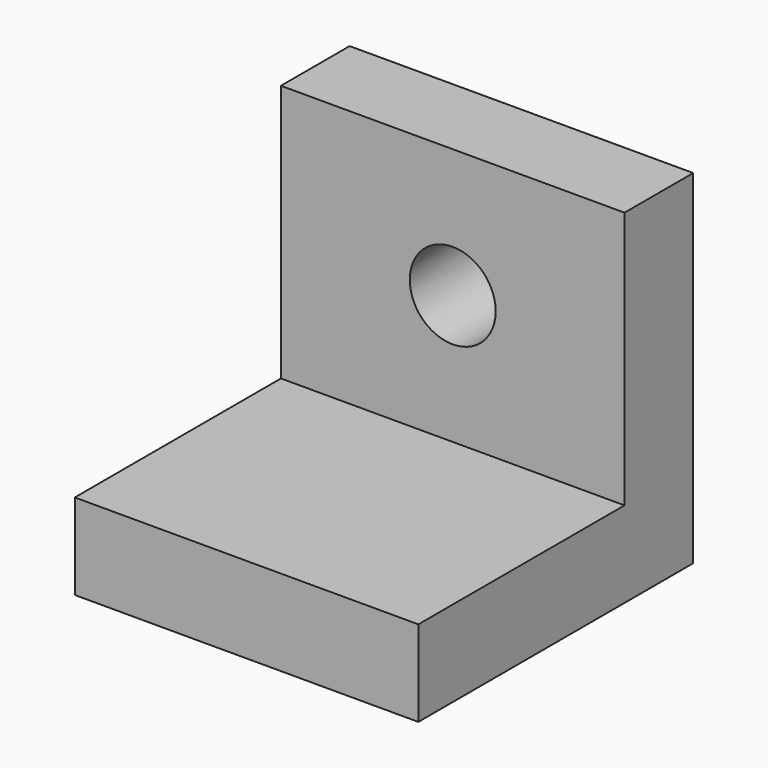
from build123d import *

# Parameters (mm, degrees)
F0_W     = 50.8
F0_H     = 50.8
F1_DEPTH = 12.7
F2_W     = 50.8
F2_H     = 12.7
F3_DEPTH = 38.1
F4_R     = 6.35
F5_DEPTH = 25.4


with BuildPart() as f1:
    # F0 (on Top) → F1 (new body)
    with BuildSketch(Plane.XY):
        with Locations((1.55575, -3.481917)):
            Rectangle(F0_W, F0_H)
    extrude(amount=F1_DEPTH)

    # F2 (on face) → F3 (join)
    with BuildSketch(Plane.XY.offset(12.7)):
        with Locations((1.55575, 15.568083)):
            Rectangle(F2_W, F2_H)
    extrude(amount=F3_DEPTH)

    # F4 (on face) → F5 (cut)
    with BuildSketch(Plane.XZ.offset(-9.218083)):
        with Locations((1.55575, 31.75)):
            Circle(F4_R)
    extrude(amount=-F5_DEPTH, mode=Mode.SUBTRACT)


solid = f1.part
